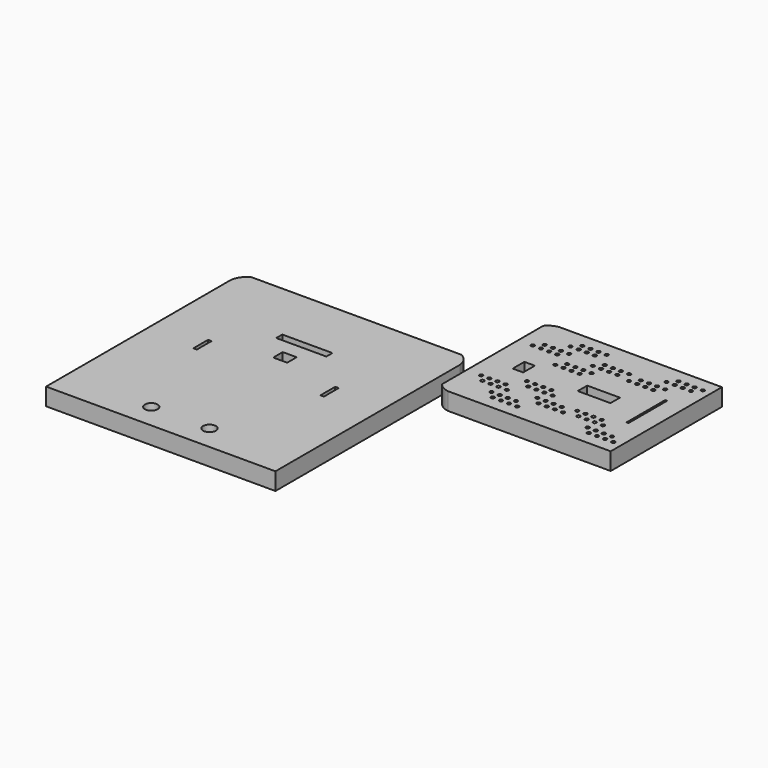
from build123d import *

# Parameters (mm, degrees)
F0_R     = 9.236662
F0_W     = 5.009293
F0_H     = 26.597656
F0_W_2   = 72.13369
F0_H_2   = 10.925447
F0_W_3   = 20.037144
F0_H_3   = 17.031569
F0_W_4   = 5.009294
F3_DEPTH = 25
F2_R     = 2.5
F2_W     = 15.027851
F2_H     = 21.038994
F2_W_2   = 47.087289
F2_H_2   = 17.031573
F2_W_3   = 2.83688
F2_H_3   = 69.503605
F4_DEPTH = 25


with BuildPart() as f3:
    # F0 (on Top) → F3 (new body)
    with BuildSketch(Plane.XY):
        with BuildLine():
            Line((-242.942154, 98.212649), (-545.128703, 98.212649))
            ThreePointArc((-545.128703, 98.212649), (-554.536834, 90.093288), (-559.035429, 78.508833))
            Line((-559.035429, 78.508833), (-559.035429, 72.038732))
            Line((-559.035429, 72.038732), (-559.035429, -253.787351))
            Line((-559.035429, -253.787351), (-229.035429, -253.787351))
            Line((-229.035429, -253.787351), (-229.035429, 72.038732))
            Line((-229.035429, 72.038732), (-229.035429, 78.508833))
            ThreePointArc((-229.035429, 78.508833), (-233.534024, 90.093288), (-242.942154, 98.212649))
        make_face()
        with Locations((-435.926259, -218.499839)):
            Circle(F0_R, mode=Mode.SUBTRACT)
        with Locations((-352.144599, -218.499839)):
            Circle(F0_R, mode=Mode.SUBTRACT)
        with Locations((-485.518187, -64.488523)):
            Rectangle(F0_W, F0_H, mode=Mode.SUBTRACT)
        with Locations((-394.85012, 5.462724)):
            Rectangle(F0_W_2, F0_H_2, mode=Mode.SUBTRACT)
        with Locations((-393.848255, -30.651623)):
            Rectangle(F0_W_3, F0_H_3, mode=Mode.SUBTRACT)
        with Locations((-302.55267, -64.488523)):
            Rectangle(F0_W_4, F0_H, mode=Mode.SUBTRACT)
    extrude(amount=F3_DEPTH)


with BuildPart() as f4:
    # F2 (on Top) → F4 (new body)
    with BuildSketch(Plane.XY):
        with BuildLine():
            Line((34.723356, 219.534237), (-199.273244, 219.534237))
            ThreePointArc((-199.273244, 219.534237), (-208.133464, 216.569709), (-215.276644, 210.547506))
            Line((-215.276644, 210.547506), (-215.276644, 28.520968))
            ThreePointArc((-215.276644, 28.520968), (-208.133464, 22.498765), (-199.273244, 19.534237))
            Line((-199.273244, 19.534237), (34.723356, 19.534237))
            Line((34.723356, 19.534237), (34.723356, 219.534237))
        make_face()
        with Locations((-150.572467, 39.031348)):
            Circle(F2_R, mode=Mode.SUBTRACT)
        with Locations((-138.764712, 39.031348)):
            Circle(F2_R, mode=Mode.SUBTRACT)
        with Locations((-185.081982, 63.490255)):
            Circle(F2_R, mode=Mode.SUBTRACT)
        with Locations((-159.990548, 48.589981)):
            Circle(F2_R, mode=Mode.SUBTRACT)
        with Locations((-148.182794, 48.589981)):
            Circle(F2_R, mode=Mode.SUBTRACT)
        with Locations((-136.656216, 48.589981)):
            Circle(F2_R, mode=Mode.SUBTRACT)
        with Locations((-173.274227, 63.490255)):
            Circle(F2_R, mode=Mode.SUBTRACT)
        with Locations((-161.74765, 63.490255)):
            Circle(F2_R, mode=Mode.SUBTRACT)
        with Locations((-149.939896, 63.490255)):
            Circle(F2_R, mode=Mode.SUBTRACT)
        with Locations((-127.238135, 39.031348)):
            Circle(F2_R, mode=Mode.SUBTRACT)
        with Locations((-115.43038, 39.031348)):
            Circle(F2_R, mode=Mode.SUBTRACT)
        with Locations((-124.848462, 48.589981)):
            Circle(F2_R, mode=Mode.SUBTRACT)
        with Locations((-101.481463, 60.070357)):
            Circle(F2_R, mode=Mode.SUBTRACT)
        with Locations((-89.673708, 60.070357)):
            Circle(F2_R, mode=Mode.SUBTRACT)
        with Locations((-78.147131, 60.070357)):
            Circle(F2_R, mode=Mode.SUBTRACT)
        with Locations((-66.339376, 60.070357)):
            Circle(F2_R, mode=Mode.SUBTRACT)
        with Locations((-194.500064, 73.048888)):
            Circle(F2_R, mode=Mode.SUBTRACT)
        with Locations((-182.692309, 73.048888)):
            Circle(F2_R, mode=Mode.SUBTRACT)
        with Locations((-171.165732, 73.048888)):
            Circle(F2_R, mode=Mode.SUBTRACT)
        with Locations((-159.357977, 73.048888)):
            Circle(F2_R, mode=Mode.SUBTRACT)
        with Locations((-135.990978, 84.529265)):
            Circle(F2_R, mode=Mode.SUBTRACT)
        with Locations((-145.40906, 94.087897)):
            Circle(F2_R, mode=Mode.SUBTRACT)
        with Locations((-133.601305, 94.087897)):
            Circle(F2_R, mode=Mode.SUBTRACT)
        with Locations((-169.492155, 118.408568)):
            Rectangle(F2_W, F2_H, mode=Mode.SUBTRACT)
        with Locations((-110.899544, 69.62899)):
            Circle(F2_R, mode=Mode.SUBTRACT)
        with Locations((-99.09179, 69.62899)):
            Circle(F2_R, mode=Mode.SUBTRACT)
        with Locations((-124.183224, 84.529265)):
            Circle(F2_R, mode=Mode.SUBTRACT)
        with Locations((-112.656646, 84.529265)):
            Circle(F2_R, mode=Mode.SUBTRACT)
        with Locations((-100.848892, 84.529265)):
            Circle(F2_R, mode=Mode.SUBTRACT)
        with Locations((-87.565213, 69.62899)):
            Circle(F2_R, mode=Mode.SUBTRACT)
        with Locations((-75.757458, 69.62899)):
            Circle(F2_R, mode=Mode.SUBTRACT)
        with Locations((-56.243779, 73.048903)):
            Circle(F2_R, mode=Mode.SUBTRACT)
        with Locations((-122.074728, 94.087897)):
            Circle(F2_R, mode=Mode.SUBTRACT)
        with Locations((-110.266973, 94.087897)):
            Circle(F2_R, mode=Mode.SUBTRACT)
        with Locations((-12.316182, 39.031363)):
            Circle(F2_R, mode=Mode.SUBTRACT)
        with Locations((-0.508428, 39.031363)):
            Circle(F2_R, mode=Mode.SUBTRACT)
        with Locations((11.01815, 39.031363)):
            Circle(F2_R, mode=Mode.SUBTRACT)
        with Locations((22.825904, 39.031363)):
            Circle(F2_R, mode=Mode.SUBTRACT)
        with Locations((-21.734264, 48.589996)):
            Circle(F2_R, mode=Mode.SUBTRACT)
        with Locations((-46.825698, 63.49027)):
            Circle(F2_R, mode=Mode.SUBTRACT)
        with Locations((-35.017943, 63.49027)):
            Circle(F2_R, mode=Mode.SUBTRACT)
        with Locations((-23.491366, 63.49027)):
            Circle(F2_R, mode=Mode.SUBTRACT)
        with Locations((-11.683611, 63.49027)):
            Circle(F2_R, mode=Mode.SUBTRACT)
        with Locations((-9.926509, 48.589996)):
            Circle(F2_R, mode=Mode.SUBTRACT)
        with Locations((1.600068, 48.589996)):
            Circle(F2_R, mode=Mode.SUBTRACT)
        with Locations((13.407823, 48.589996)):
            Circle(F2_R, mode=Mode.SUBTRACT)
        with Locations((-44.436025, 73.048903)):
            Circle(F2_R, mode=Mode.SUBTRACT)
        with Locations((-32.909447, 73.048903)):
            Circle(F2_R, mode=Mode.SUBTRACT)
        with Locations((-21.101693, 73.048903)):
            Circle(F2_R, mode=Mode.SUBTRACT)
        with Locations((-194.500064, 166.019585)):
            Circle(F2_R, mode=Mode.SUBTRACT)
        with Locations((-182.692309, 166.019585)):
            Circle(F2_R, mode=Mode.SUBTRACT)
        with Locations((-145.40906, 144.980576)):
            Circle(F2_R, mode=Mode.SUBTRACT)
        with Locations((-133.601305, 144.980576)):
            Circle(F2_R, mode=Mode.SUBTRACT)
        with Locations((-135.990978, 154.539209)):
            Circle(F2_R, mode=Mode.SUBTRACT)
        with Locations((-171.165732, 166.019585)):
            Circle(F2_R, mode=Mode.SUBTRACT)
        with Locations((-159.357977, 166.019585)):
            Circle(F2_R, mode=Mode.SUBTRACT)
        with Locations((-62.293436, 119.410429)):
            Rectangle(F2_W_2, F2_H_2, mode=Mode.SUBTRACT)
        with Locations((-122.074728, 144.980576)):
            Circle(F2_R, mode=Mode.SUBTRACT)
        with Locations((-124.183224, 154.539209)):
            Circle(F2_R, mode=Mode.SUBTRACT)
        with Locations((-110.266973, 144.980576)):
            Circle(F2_R, mode=Mode.SUBTRACT)
        with Locations((-112.656646, 154.539209)):
            Circle(F2_R, mode=Mode.SUBTRACT)
        with Locations((-100.848892, 154.539209)):
            Circle(F2_R, mode=Mode.SUBTRACT)
        with Locations((-56.243779, 166.01957)):
            Circle(F2_R, mode=Mode.SUBTRACT)
        with Locations((-185.081982, 175.578218)):
            Circle(F2_R, mode=Mode.SUBTRACT)
        with Locations((-173.274227, 175.578218)):
            Circle(F2_R, mode=Mode.SUBTRACT)
        with Locations((-161.74765, 175.578218)):
            Circle(F2_R, mode=Mode.SUBTRACT)
        with Locations((-149.939896, 175.578218)):
            Circle(F2_R, mode=Mode.SUBTRACT)
        with Locations((-159.990548, 190.478493)):
            Circle(F2_R, mode=Mode.SUBTRACT)
        with Locations((-148.182794, 190.478493)):
            Circle(F2_R, mode=Mode.SUBTRACT)
        with Locations((-136.656216, 190.478493)):
            Circle(F2_R, mode=Mode.SUBTRACT)
        with Locations((-150.572467, 200.037125)):
            Circle(F2_R, mode=Mode.SUBTRACT)
        with Locations((-138.764712, 200.037125)):
            Circle(F2_R, mode=Mode.SUBTRACT)
        with Locations((-110.899544, 169.439483)):
            Circle(F2_R, mode=Mode.SUBTRACT)
        with Locations((-99.09179, 169.439483)):
            Circle(F2_R, mode=Mode.SUBTRACT)
        with Locations((-101.481463, 178.998116)):
            Circle(F2_R, mode=Mode.SUBTRACT)
        with Locations((-124.848462, 190.478493)):
            Circle(F2_R, mode=Mode.SUBTRACT)
        with Locations((-87.565213, 169.439483)):
            Circle(F2_R, mode=Mode.SUBTRACT)
        with Locations((-75.757458, 169.439483)):
            Circle(F2_R, mode=Mode.SUBTRACT)
        with Locations((-89.673708, 178.998116)):
            Circle(F2_R, mode=Mode.SUBTRACT)
        with Locations((-78.147131, 178.998116)):
            Circle(F2_R, mode=Mode.SUBTRACT)
        with Locations((-66.339376, 178.998116)):
            Circle(F2_R, mode=Mode.SUBTRACT)
        with Locations((-127.238135, 200.037125)):
            Circle(F2_R, mode=Mode.SUBTRACT)
        with Locations((-115.43038, 200.037125)):
            Circle(F2_R, mode=Mode.SUBTRACT)
        with Locations((6.029656, 120.170742)):
            Rectangle(F2_W_3, F2_H_3, mode=Mode.SUBTRACT)
        with Locations((-44.436025, 166.01957)):
            Circle(F2_R, mode=Mode.SUBTRACT)
        with Locations((-32.909447, 166.01957)):
            Circle(F2_R, mode=Mode.SUBTRACT)
        with Locations((-21.101693, 166.01957)):
            Circle(F2_R, mode=Mode.SUBTRACT)
        with Locations((-46.825698, 175.578203)):
            Circle(F2_R, mode=Mode.SUBTRACT)
        with Locations((-35.017943, 175.578203)):
            Circle(F2_R, mode=Mode.SUBTRACT)
        with Locations((-23.491366, 175.578203)):
            Circle(F2_R, mode=Mode.SUBTRACT)
        with Locations((-11.683611, 175.578203)):
            Circle(F2_R, mode=Mode.SUBTRACT)
        with Locations((-21.734264, 190.478478)):
            Circle(F2_R, mode=Mode.SUBTRACT)
        with Locations((-9.926509, 190.478478)):
            Circle(F2_R, mode=Mode.SUBTRACT)
        with Locations((1.600068, 190.478478)):
            Circle(F2_R, mode=Mode.SUBTRACT)
        with Locations((13.407823, 190.478478)):
            Circle(F2_R, mode=Mode.SUBTRACT)
        with Locations((-12.316182, 200.037111)):
            Circle(F2_R, mode=Mode.SUBTRACT)
        with Locations((-0.508428, 200.037111)):
            Circle(F2_R, mode=Mode.SUBTRACT)
        with Locations((11.01815, 200.037111)):
            Circle(F2_R, mode=Mode.SUBTRACT)
        with Locations((22.825904, 200.037111)):
            Circle(F2_R, mode=Mode.SUBTRACT)
    extrude(amount=F4_DEPTH)


solid = Compound([f3.part, f4.part])
